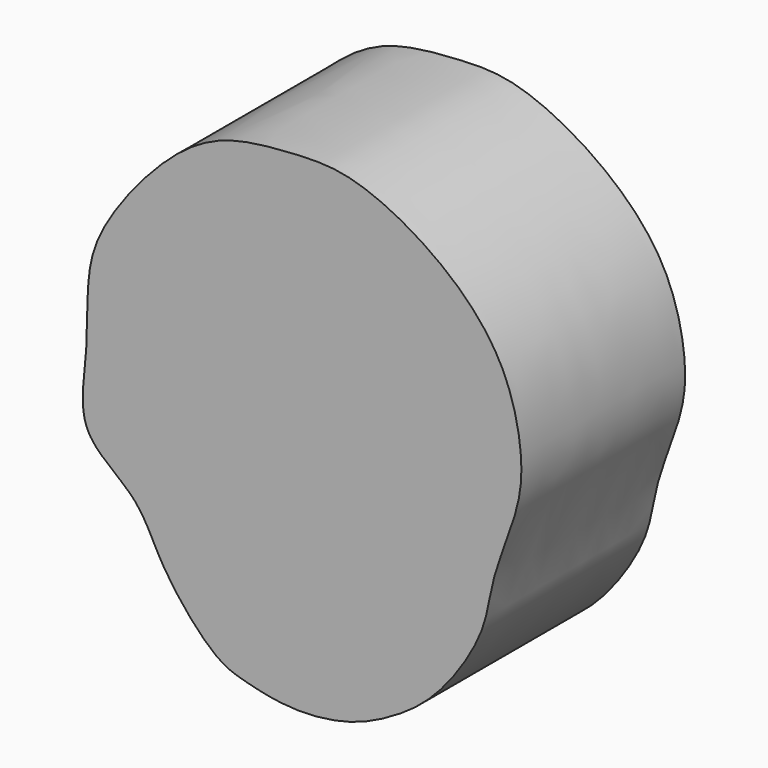
from build123d import *

# Parameters (mm, degrees)
F1_DEPTH = 55.8357164264


with BuildPart() as f1:
    # F0 (on Front) → F1 (new body)
    with BuildSketch(Plane.XZ):
        with BuildLine():
            add(Edge.make_bspline(
                [(-20.1233774424, 62.8595277667), (-26.7543026032, 60.2377950813), (-37.9838847179, 50.9512798578), (-50.8034953694, 34.2361976098), (-56.4201936261, 20.7117750694), (-55.2865508497, 0.2036902146), (-59.4453229959, -19.9068136022), (-41.280944131, -29.6183927783), (-36.4645208026, -44.2821654386), (-21.64405707, -61.837191538), (-13.0479389591, -64.6155493545), (0.1757150285, -67.6702080097), (15.579445514, -65.9003459708), (27.5654554393, -60.1394894984), (40.212168765, -51.4028871924), (53.2226418777, -31.7217589753), (53.9625339992, -18.2512404142), (61.8784664792, 0.1522951128), (63.338576412, 13.9138578355), (58.4556564993, 36.5865091761), (39.6093747207, 55.564059062), (16.1730336293, 67.1078534836), (0.1837134408, 66.5264564018), (-13.6650427419, 65.4130217011), (-20.1233774424, 62.8595277667)],
                knots=[0, 0, 0, 0, 0.0501231298, 0.0992705079, 0.139941931, 0.1889207185, 0.2353435717, 0.2800898793, 0.3233066494, 0.3737145311, 0.4059558568, 0.4449927244, 0.4874342296, 0.5262451137, 0.5687953971, 0.6200265415, 0.6602757542, 0.7073856996, 0.7477623233, 0.7981255692, 0.8541065433, 0.9082653667, 0.9511814806, 1, 1, 1, 1], degree=3))
        make_face()
    extrude(amount=F1_DEPTH)


solid = f1.part
